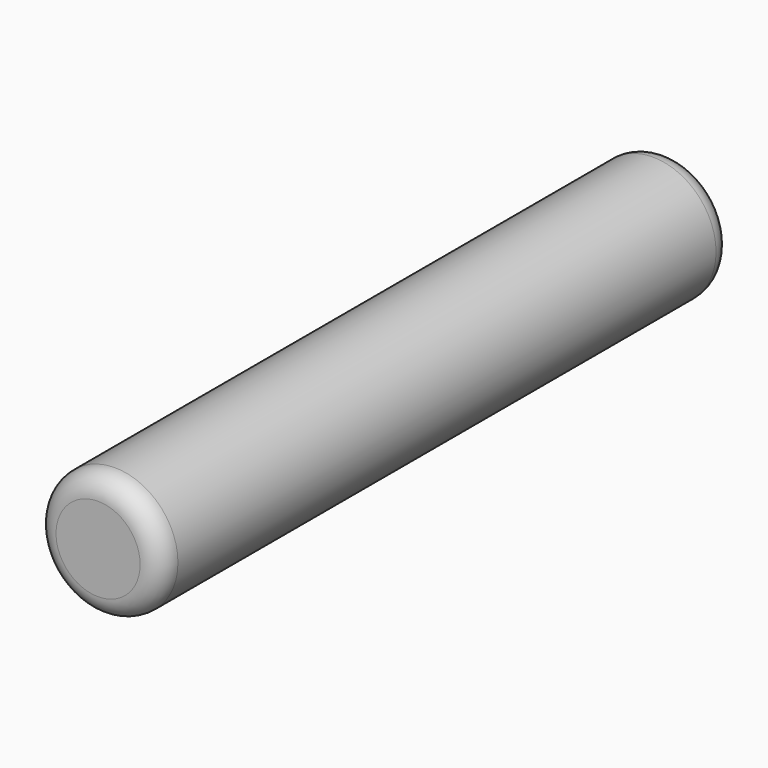
from build123d import *

# Parameters (mm, degrees)
F0_R     = 1.5
F1_DEPTH = 17
F2_R     = 0.5


with BuildPart() as f1:
    # F0 (on Front) → F1 (new body)
    with BuildSketch(Plane.XZ):
        Circle(F0_R)
    extrude(amount=F1_DEPTH)

    # F2
    f2_edges = [f1.edges().sort_by_distance(p)[0] for p in [
        (1.5, -8.5, 0),
        (-1.5, 0, 0),
        (-1.5, -17, 0),
    ]]
    fillet(f2_edges, radius=F2_R)


solid = f1.part
